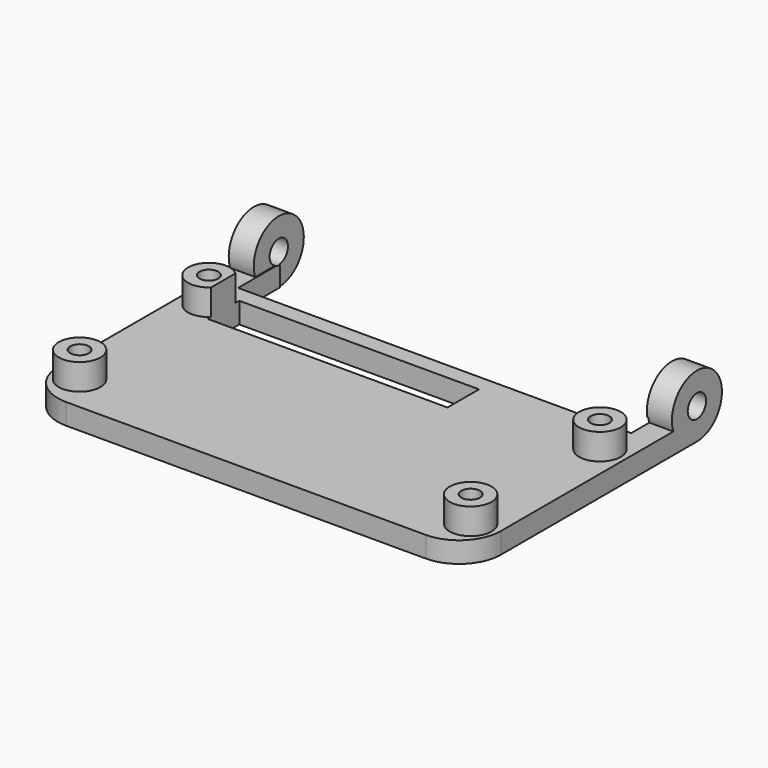
from build123d import *

# Parameters (mm, degrees)
SKETCH_W        = 85
SKETCH_H        = 55
PAD_DEPTH       = 4
SKETCH001_R     = 6
PAD001_DEPTH    = 4.8
SKETCH002_R     = 6
PAD002_DEPTH    = 4.8
SKETCH003_W     = 75.4
SKETCH003_H     = 10
POCKET_DEPTH    = 5
SKETCH008_R     = 2.2
POCKET001_DEPTH = 85
SKETCH005_R     = 4
PAD003_DEPTH    = 5
SKETCH006_R     = 1.8
POCKET002_DEPTH = 9
SKETCH007_W     = 45.975895
SKETCH007_H     = 7.541788
POCKET003_DEPTH = 9
FILLET_R        = 8
FILLET001_R     = 8


with BuildPart() as part:
    # Sketch → Pad (new body)
    with BuildSketch(Plane.XY):
        with Locations((0, -27.5)):
            Rectangle(SKETCH_W, SKETCH_H)
    extrude(amount=PAD_DEPTH)

    # Sketch001 (on Face2 of Pad) → Pad001 (join)
    with BuildSketch(Plane.YZ.offset(42.5)):
        with Locations((0, 6)):
            Circle(SKETCH001_R)
    extrude(amount=-PAD001_DEPTH)

    # Sketch002 (on Face5 of Pad001) → Pad002 (join)
    with BuildSketch(Plane(origin=(-42.5, 0, 0), x_dir=(0, -1, 0), z_dir=(-1, 0, 0))):
        with Locations((0, 6)):
            Circle(SKETCH002_R)
    extrude(amount=-PAD002_DEPTH)

    # Sketch003 (on Face6 of Pad002) → Pocket (cut)
    with BuildSketch(Plane(origin=(0, 0, 0), x_dir=(1, 0, 0), z_dir=(0, 0, -1))):
        with Locations((0.2, 5)):
            Rectangle(SKETCH003_W, SKETCH003_H)
    extrude(amount=-POCKET_DEPTH, mode=Mode.SUBTRACT)

    # Sketch008 (on Face20 of Pocket) → Pocket001 (cut)
    with BuildSketch(Plane.YZ.offset(42.5)):
        with Locations((0, 6)):
            Circle(SKETCH008_R)
    extrude(amount=-POCKET001_DEPTH, mode=Mode.SUBTRACT)

    # Sketch005 (on Face8 of Pocket001) → Pad003 (join)
    with BuildSketch(Plane.XY.offset(4)):
        with Locations((-37.5, -17)):
            Circle(SKETCH005_R)
        with Locations((37.5, -17)):
            Circle(SKETCH005_R)
        with Locations((37.5, -48)):
            Circle(SKETCH005_R)
        with Locations((-37.5, -48)):
            Circle(SKETCH005_R)
    extrude(amount=PAD003_DEPTH)

    # Sketch006 → Pocket002 (cut)
    with BuildSketch(Plane.XY.offset(9)):
        with Locations((-37.5, -17)):
            Circle(SKETCH006_R)
        with Locations((-37.5, -48)):
            Circle(SKETCH006_R)
        with Locations((37.5, -48)):
            Circle(SKETCH006_R)
        with Locations((37.5, -17)):
            Circle(SKETCH006_R)
    extrude(amount=-POCKET002_DEPTH, mode=Mode.SUBTRACT)

    # Sketch007 → Pocket003 (cut)
    with BuildSketch(Plane.XY.offset(9)):
        with Locations((-11.765078, -16.925255)):
            Rectangle(SKETCH007_W, SKETCH007_H)
    extrude(amount=-POCKET003_DEPTH, mode=Mode.SUBTRACT)

    # Fillet
    fillet_edges = [part.edges().sort_by_distance(p)[0] for p in [
        (-42.5, -55, 2),
    ]]
    fillet(fillet_edges, radius=FILLET_R)

    # Fillet001
    fillet001_edges = [part.edges().sort_by_distance(p)[0] for p in [
        (42.5, -55, 2),
    ]]
    fillet(fillet001_edges, radius=FILLET001_R)


solid = part.part
